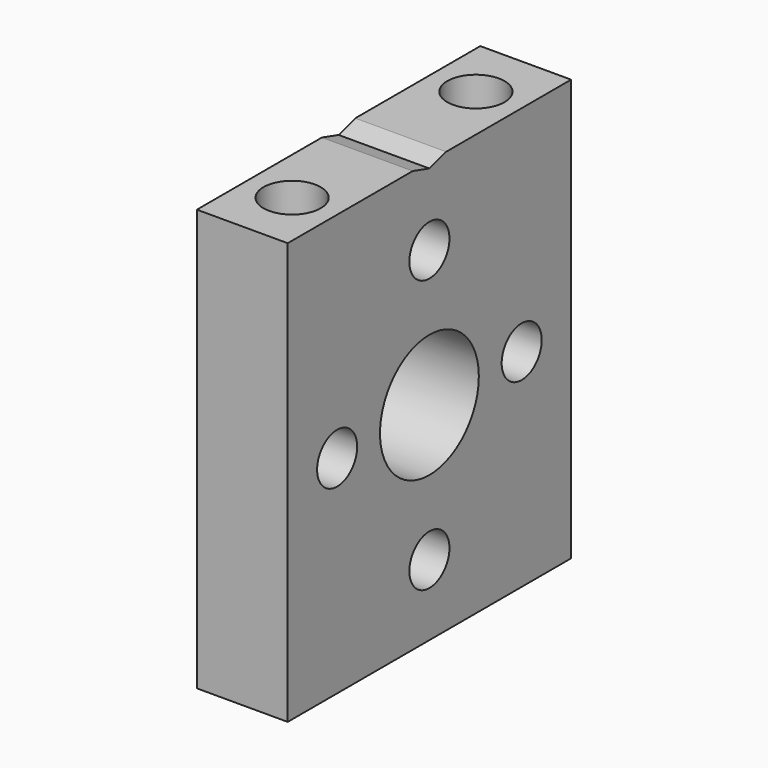
from build123d import *

# Parameters (mm, degrees)
SKETCH028_R     = 1.75
SKETCH028_R_2   = 4.318
PAD017_DEPTH    = 6.35
SKETCH036_R     = 2
POCKET014_DEPTH = 6.35
SKETCH050_R     = 2.286
POCKET022_DEPTH = 4.318


with BuildPart() as part:
    # Sketch028 → Pad017 (new body)
    with BuildSketch(Plane.YZ):
        Polygon((12.3825, 0), (-12.3825, 0), (-12.3825, 29.464), (-1.4605, 29.464), (0, 29.0286659329), (1.4605, 29.464), (12.3825, 29.464), align=None)
        with Locations((0, 24.003)):
            Circle(SKETCH028_R, mode=Mode.SUBTRACT)
        with Locations((8.0645, 14.478)):
            Circle(SKETCH028_R, mode=Mode.SUBTRACT)
        with Locations((0, 4.953)):
            Circle(SKETCH028_R, mode=Mode.SUBTRACT)
        with Locations((-8.0645, 14.478)):
            Circle(SKETCH028_R, mode=Mode.SUBTRACT)
        with Locations((0, 14.478)):
            Circle(SKETCH028_R_2, mode=Mode.SUBTRACT)
    extrude(amount=-PAD017_DEPTH)

    # Sketch036 (on Face1 of Pad017) → Pocket014 (cut)
    with BuildSketch(Plane(origin=(0, 0, 29.464), x_dir=(0, -1, 0), z_dir=(0, 0, 1))):
        with Locations((-8.0310998827, -3.175)):
            Circle(SKETCH036_R)
        with Locations((8.0310998827, -3.175)):
            Circle(SKETCH036_R)
    extrude(amount=-POCKET014_DEPTH, mode=Mode.SUBTRACT)

    # Sketch050 (on Face8 of Pocket014) → Pocket022 (cut)
    with BuildSketch(Plane.YX):
        with Locations((-7.9375, -3.175)):
            Circle(SKETCH050_R)
        with Locations((7.9375, -3.175)):
            Circle(SKETCH050_R)
    extrude(amount=-POCKET022_DEPTH, mode=Mode.SUBTRACT)


with BuildPart() as part_1:
    # Body010 placement: moved
    add(part.part.moved(Location((-24.13, -5.33, 0))))


solid = part_1.part
